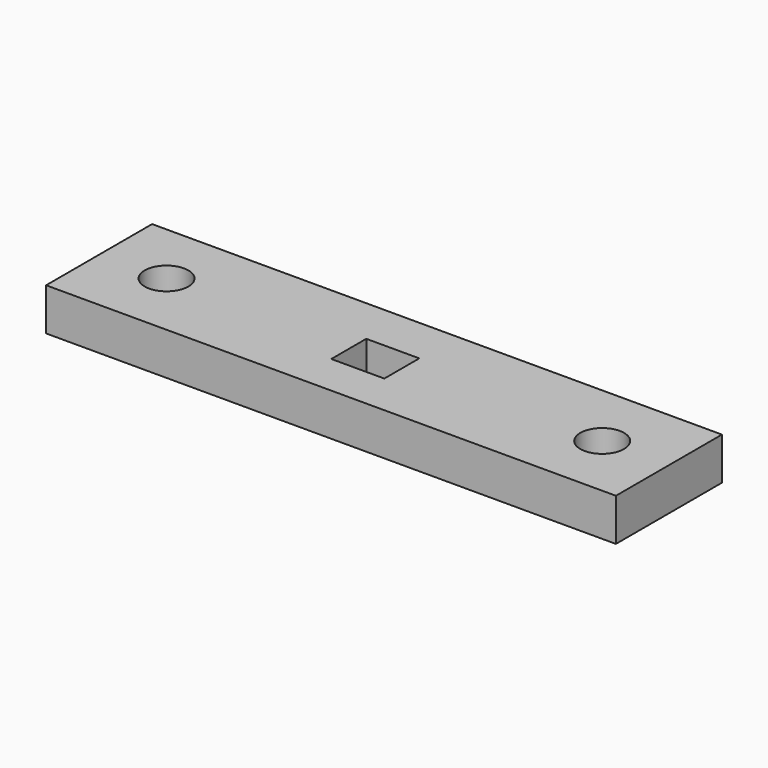
from build123d import *

# Parameters (mm, degrees)
F0_W     = 43
F0_H     = 10
F0_W_2   = 4
F0_H_2   = 3.3
F0_R     = 1.65
F1_DEPTH = 3.2


with BuildPart() as f1:
    # F0 (on Top) → F1 (new body)
    with BuildSketch(Plane.XY):
        with Locations((-24.665599, 11.63479)):
            Rectangle(F0_W, F0_H)
        with Locations((-25.165599, 11.438007)):
            Rectangle(F0_W_2, F0_H_2, mode=Mode.SUBTRACT)
        with Locations((-8.165599, 11.591477)):
            Circle(F0_R, mode=Mode.SUBTRACT)
        with Locations((-41.165599, 11.748509)):
            Circle(F0_R, mode=Mode.SUBTRACT)
    extrude(amount=F1_DEPTH)


solid = f1.part
